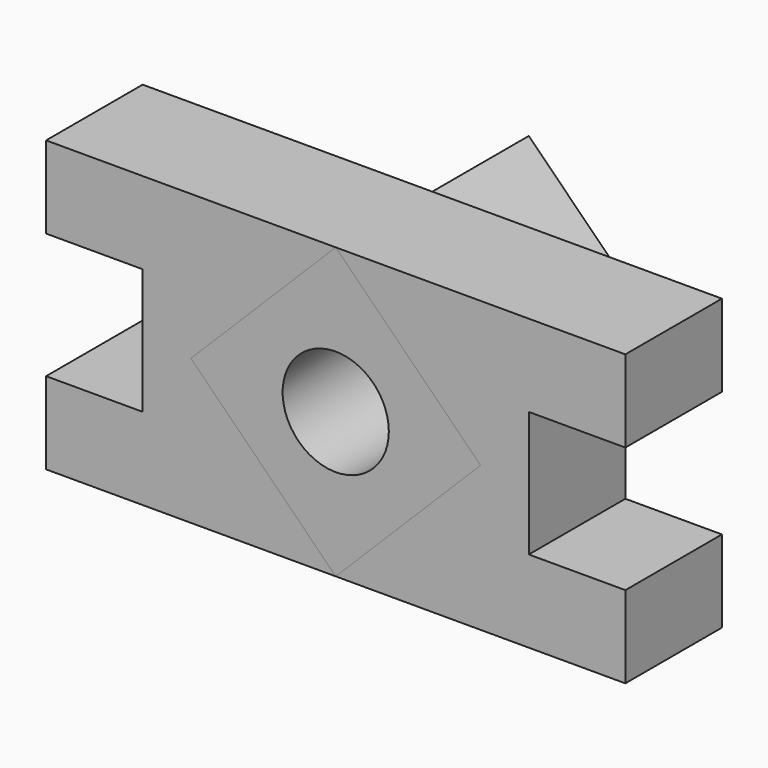
from build123d import *

# Parameters (mm, degrees)
F0_R     = 11
F1_DEPTH = 25
F2_DEPTH = 25


with BuildPart() as f1:
    # F0 (on Front) → F1 (new body)
    with BuildSketch(Plane.XZ):
        Polygon((-60, -13), (-60, -30), (-30, -30), (0, -30), (-30, 0), (0, 30), (-60, 30), (-60, 13), (-40, 13), (-40, -13), align=None)
        Polygon((30, 0), (0, -30), (30, -30), (60, -30), (60, -13), (40, -13), (40, 13), (60, 13), (60, 30), (0, 30), align=None)
        Polygon((-30, 0), (0, -30), (30, 0), (0, 30), align=None)
        Circle(F0_R, mode=Mode.SUBTRACT)
    extrude(amount=F1_DEPTH)


with BuildPart() as f2:
    # F0 (on Front) → F2 (new body, symmetric)
    with BuildSketch(Plane.XZ):
        Polygon((-30, 0), (0, -30), (30, 0), (0, 30), align=None)
        Circle(F0_R, mode=Mode.SUBTRACT)
    extrude(amount=F2_DEPTH, both=True)


solid = Compound([f1.part, f2.part])
